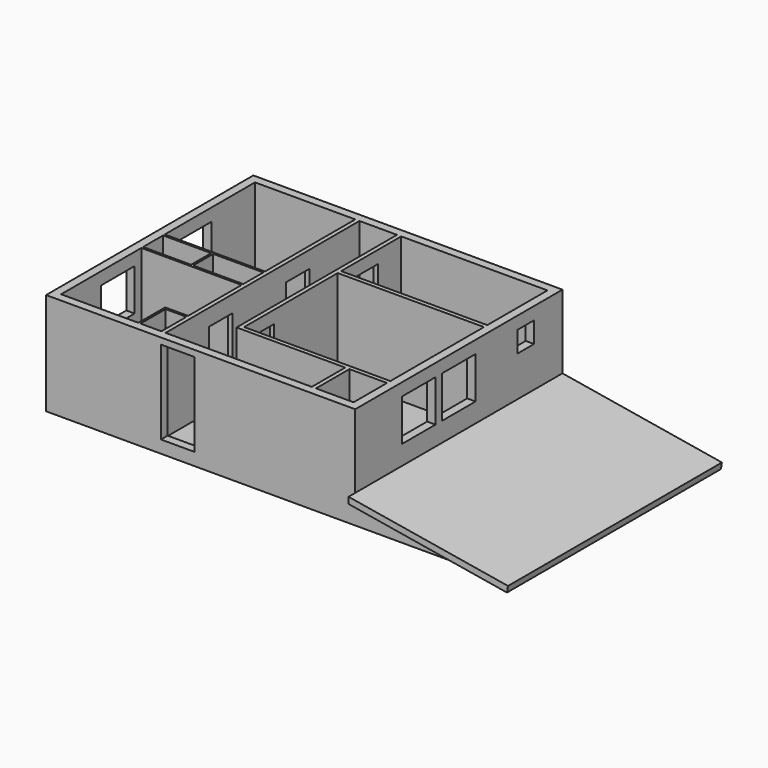
from build123d import *

# Parameters (mm, degrees)
F0_W      = 7400
F0_H      = 6200
F0_W_2    = 2300
F0_H_2    = 1000
F1_DEPTH  = 250
F2_W      = 7400
F2_H      = 6200
F2_W_2    = 500
F2_H_2    = 750
F2_W_3    = 1150
F2_H_3    = 600
F2_W_4    = 1200
F2_W_5    = 900
F2_H_4    = 1000
F2_W_6    = 3500
F2_H_5    = 2800
F2_W_7    = 2400
F2_H_6    = 2700
F2_H_7    = 1800
F3_DEPTH  = 2200
F5_DEPTH  = 6200
F6_W      = 700
F6_H      = 1800
F7_DEPTH  = 100
F8_W      = 700
F8_H      = 1900
F9_DEPTH  = 100
F10_W     = 1000
F10_H     = 1000
F10_W_2   = 500
F10_H_2   = 500
F11_DEPTH = 200
F12_W     = 1000
F12_H     = 1000
F13_DEPTH = 200
F14_W     = 800
F14_H     = 2000
F15_DEPTH = 200
F17_DEPTH = 200


with BuildPart() as f1:
    # F0 (on Top) → F1 (new body)
    with BuildSketch(Plane.XY):
        with Locations((3700, -3100)):
            Rectangle(F0_W, F0_H)
        with Locations((5050, -5500)):
            Rectangle(F0_W_2, F0_H_2, mode=Mode.SUBTRACT)
    extrude(amount=F1_DEPTH)

    # F2 (on face) → F3 (join)
    with BuildSketch(Plane.XY.offset(250)):
        with Locations((3700, -3100)):
            Rectangle(F2_W, F2_H)
        Polygon((2050, -6000), (200, -6000), (200, -3600), (2600, -3600), (2600, -5200), (2050, -5200), align=None, mode=Mode.SUBTRACT)
        with Locations((2350, -5625)):
            Rectangle(F2_W_2, F2_H_2, mode=Mode.SUBTRACT)
        with Locations((775, -3250)):
            Rectangle(F2_W_3, F2_H_3, mode=Mode.SUBTRACT)
        with Locations((2000, -3250)):
            Rectangle(F2_W_4, F2_H_3, mode=Mode.SUBTRACT)
        with Locations((6750, -5500)):
            Rectangle(F2_W_5, F2_H_4, mode=Mode.SUBTRACT)
        with Locations((5450, -3500)):
            Rectangle(F2_W_6, F2_H_5, mode=Mode.SUBTRACT)
        with Locations((1400, -1550)):
            Rectangle(F2_W_7, F2_H_6, mode=Mode.SUBTRACT)
        Polygon((6200, -6000), (2700, -6000), (2700, -200), (3600, -200), (3600, -5000), (6200, -5000), align=None, mode=Mode.SUBTRACT)
        with Locations((5450, -1100)):
            Rectangle(F2_W_6, F2_H_7, mode=Mode.SUBTRACT)
    extrude(amount=F3_DEPTH)

    # F4 (on face) → F5 (join, through all)
    with BuildSketch(Plane.XZ.offset(6200)):
        Polygon((7400, 0), (10600, 0), (11191.790179, -98.916043), (11216.51919, 49.031502), (7400, 686.951816), align=None)
    extrude(amount=-F5_DEPTH)

    # F6 (on face) → F7 (cut, through all)
    with BuildSketch(Plane.YZ.offset(2700)):
        with Locations((-4350, 1150)):
            Rectangle(F6_W, F6_H)
        with Locations((-2050, 1150)):
            Rectangle(F6_W, F6_H)
    extrude(amount=-F7_DEPTH, mode=Mode.SUBTRACT)

    # F8 (on face) → F9 (cut, through all)
    with BuildSketch(Plane(origin=(3600, 0, 0), x_dir=(0, -1, 0), z_dir=(-1, 0, 0))):
        with Locations((1250, 1200)):
            Rectangle(F8_W, F8_H)
        with Locations((4350, 1200)):
            Rectangle(F8_W, F8_H)
    extrude(amount=-F9_DEPTH, mode=Mode.SUBTRACT)

    # F10 (on face) → F11 (cut, through all)
    with BuildSketch(Plane(origin=(7200, 0, 0), x_dir=(0, -1, 0), z_dir=(-1, 0, 0))):
        with Locations((3100, 1650)):
            Rectangle(F10_W, F10_H)
        with Locations((4300, 1650)):
            Rectangle(F10_W, F10_H)
        with Locations((1100, 1900)):
            Rectangle(F10_W_2, F10_H_2)
    extrude(amount=-F11_DEPTH, mode=Mode.SUBTRACT)

    # F12 (on face) → F13 (cut, through all)
    with BuildSketch(Plane(origin=(0, 0, 0), x_dir=(0, -1, 0), z_dir=(-1, 0, 0))):
        with Locations((2000, 1650)):
            Rectangle(F12_W, F12_H)
        with Locations((4300, 1650)):
            Rectangle(F12_W, F12_H)
    extrude(amount=-F13_DEPTH, mode=Mode.SUBTRACT)

    # F14 (on face) → F15 (cut, through all)
    with BuildSketch(Plane(origin=(0, -6000, 0), x_dir=(-1, 0, 0), z_dir=(0, 1, 0))):
        with Locations((-3150, 1300)):
            Rectangle(F14_W, F14_H)
    extrude(amount=-F15_DEPTH, mode=Mode.SUBTRACT)

    # F16 (on face) → F17 (join)
    with BuildSketch(Plane.XZ.offset(6200)):
        Polygon((7400, 534.870888), (11191.790179, -98.916043), (11216.51919, 49.031502), (7400, 686.951816), align=None)
    extrude(amount=F17_DEPTH)


solid = f1.part
